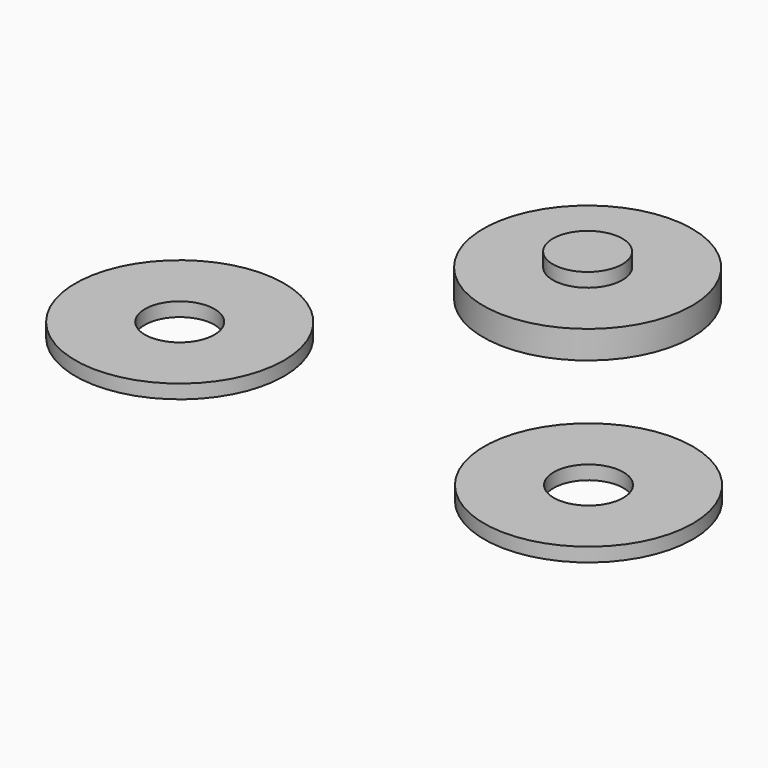
from build123d import *

# Parameters (mm, degrees)
F0_R          = 15
F0_R_2        = 5
F1_DEPTH      = 2
F3_R          = 15
F4_DEPTH      = 2
F4_DEPTH_BACK = 2
F5_R          = 5
F6_DEPTH      = 2
F6_DEPTH_BACK = 6


with BuildPart() as f1:
    # F0 (on Top) → F1 (new body)
    with BuildSketch(Plane.XY):
        Circle(F0_R)
        Circle(F0_R_2, mode=Mode.SUBTRACT)
    extrude(amount=F1_DEPTH)


with BuildPart() as f2_1:
    # F2: copy of F1
    add(f1.part.moved(Location((-60.6, 2.3, 0))))


with BuildPart() as f4:
    # F3 (on Top) → F4 (new body, two sides)
    with BuildSketch(Plane.XY) as f4_sk:
        with Locations((-33.147849, 41.276395)):
            Circle(F3_R)
    extrude(amount=F4_DEPTH)
    extrude(f4_sk.sketch, amount=-F4_DEPTH_BACK)

    # F5 (on face) → F6 (join, two sides)
    with BuildSketch(Plane.XY.offset(2)) as f6_sk:
        with Locations((-33.147849, 41.276395)):
            Circle(F5_R)
    extrude(amount=F6_DEPTH)
    extrude(f6_sk.sketch, amount=-F6_DEPTH_BACK)


solid = Compound([f1.part, f2_1.part, f4.part])
